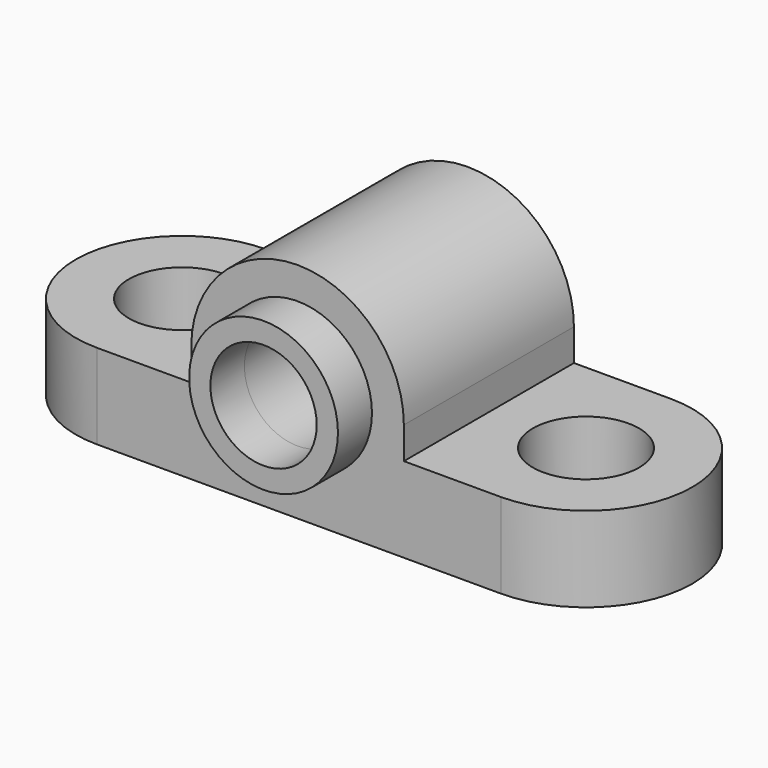
from build123d import *

# Parameters (mm, degrees)
F0_R     = 5
F1_DEPTH = 8
F3_DEPTH = 20
F4_R     = 5
F5_DEPTH = 20.001
F4_R_2   = 7
F6_DEPTH = 4


with BuildPart() as f1:
    # F0 (on Top) → F1 (new body)
    with BuildSketch(Plane.XY):
        with BuildLine():
            ThreePointArc((-18.86745, 8.988079), (-28.86745, -1.011921), (-18.86745, -11.011921))
            Line((-18.86745, -11.011921), (19.13255, -11.011921))
            ThreePointArc((19.13255, -11.011921), (29.13255, -1.011921), (19.13255, 8.988079))
            Line((19.13255, 8.988079), (-18.86745, 8.988079))
        make_face()
        with Locations((-18.86745, -1.011921)):
            Circle(F0_R, mode=Mode.SUBTRACT)
        with Locations((19.13255, -1.011921)):
            Circle(F0_R, mode=Mode.SUBTRACT)
    extrude(amount=F1_DEPTH)

    # F2 (on face) → F3 (join)
    with BuildSketch(Plane.XZ.offset(11.011921)):
        Polygon((-10, 11), (-10, 8), (0, 8), (10, 8), (10, 11), (0, 11), align=None)
        with BuildLine():
            ThreePointArc((10, 11), (0, 21), (-10, 11))
            Line((-10, 11), (0, 11))
            Line((0, 11), (10, 11))
        make_face()
    extrude(amount=-F3_DEPTH)

    # F4 (on face) → F5 (cut, through all)
    with BuildSketch(Plane.XZ.offset(11.011921)):
        with Locations((0, 11)):
            Circle(F4_R)
    extrude(amount=-F5_DEPTH, mode=Mode.SUBTRACT)

    # F4 (on face) → F6 (join)
    with BuildSketch(Plane.XZ.offset(11.011921)):
        with Locations((0, 11)):
            Circle(F4_R_2)
        with Locations((0, 11)):
            Circle(F4_R, mode=Mode.SUBTRACT)
    extrude(amount=F6_DEPTH)


solid = f1.part
